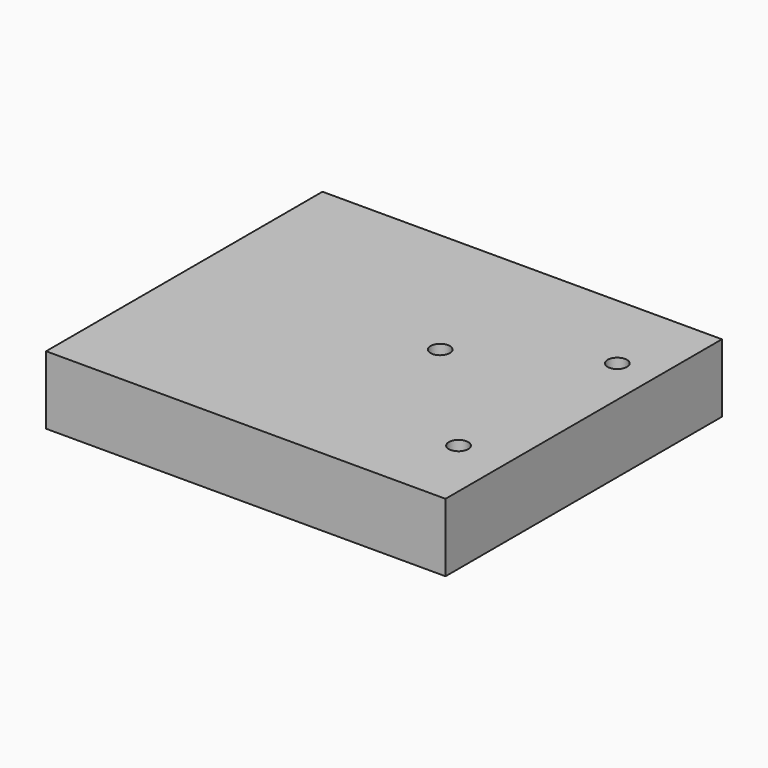
from build123d import *

# Parameters (mm, degrees)
F0_W     = 131.084383
F0_H     = 22.393003
F1_DEPTH = 113.37322
F3_D     = 6.35


with BuildPart() as f1:
    # F0 (on Front) → F1 (new body)
    with BuildSketch(Plane.XZ):
        with Locations((-30.799992, 22.157069)):
            Rectangle(F0_W, F0_H)
    extrude(amount=F1_DEPTH)

    # F3 (through all)
    with Locations(Plane.XY.offset(33.353571)):
        with Locations((22.153882, -27.194425), (-18.072352, -49.556963), (18.889636, -88.233575)):
            Hole(F3_D / 2)


solid = f1.part
